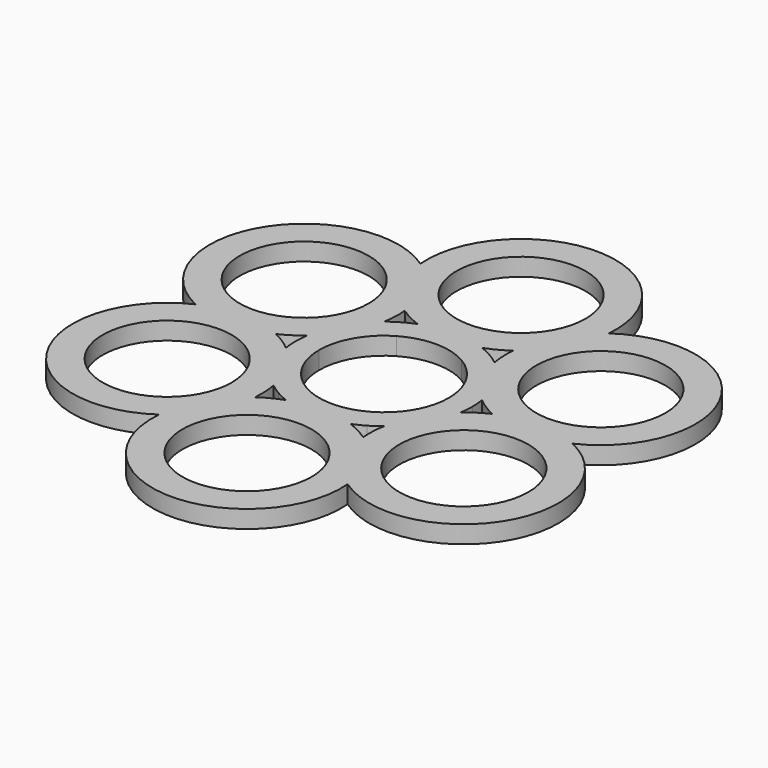
from build123d import *

# Parameters (mm, degrees)
F0_R     = 10.95
F1_DEPTH = 3


with BuildPart() as f1:
    # F0 (on Top) → F1 (new body)
    with BuildSketch(Plane.XY):
        with BuildLine():
            ThreePointArc((31.984763, 0), (39.065003, 22.55419), (15.992381, 27.699617))
            ThreePointArc((15.992381, 27.699617), (0, 45.10838), (-15.992381, 27.699617))
            ThreePointArc((-15.992381, 27.699617), (-39.065003, 22.55419), (-31.984763, 0))
            ThreePointArc((-31.984763, 0), (-39.065003, -22.55419), (-15.992381, -27.699617))
            ThreePointArc((-15.992381, -27.699617), (0, -45.10838), (15.992381, -27.699617))
            ThreePointArc((15.992381, -27.699617), (39.065003, -22.55419), (31.984763, 0))
        make_face()
        with Locations((-25.165295, -14.52919)):
            Circle(F0_R, mode=Mode.SUBTRACT)
        with BuildLine():
            ThreePointArc((-9.172914, -15.887953), (-9.131999, -13.797138), (-9.363272, -11.718751))
            ThreePointArc((-9.363272, -11.718751), (-8.455575, -12.389643), (-7.5, -12.990381))
            ThreePointArc((-7.5, -12.990381), (-6.501958, -13.517564), (-5.4671, -13.968207))
            ThreePointArc((-5.4671, -13.968207), (-7.382673, -14.807112), (-9.172914, -15.887953))
        make_face(mode=Mode.SUBTRACT)
        with Locations((0, -29.05838)):
            Circle(F0_R, mode=Mode.SUBTRACT)
        with BuildLine():
            ThreePointArc((9.172914, -15.887953), (7.382673, -14.807112), (5.4671, -13.968207))
            ThreePointArc((5.4671, -13.968207), (6.501958, -13.517564), (7.5, -12.990381))
            ThreePointArc((7.5, -12.990381), (8.455575, -12.389643), (9.363272, -11.718751))
            ThreePointArc((9.363272, -11.718751), (9.131999, -13.797138), (9.172914, -15.887953))
        make_face(mode=Mode.SUBTRACT)
        with Locations((25.165295, -14.52919)):
            Circle(F0_R, mode=Mode.SUBTRACT)
        with Locations((-25.165295, 14.52919)):
            Circle(F0_R, mode=Mode.SUBTRACT)
        with BuildLine():
            ThreePointArc((-18.345828, 0), (-16.514672, 1.009974), (-14.830372, 2.249456))
            ThreePointArc((-14.830372, 2.249456), (-14.957533, 1.127921), (-15, 0))
            ThreePointArc((-15, 0), (-14.957533, -1.127921), (-14.830372, -2.249456))
            ThreePointArc((-14.830372, -2.249456), (-16.514672, -1.009974), (-18.345828, 0))
        make_face(mode=Mode.SUBTRACT)
        with BuildLine():
            ThreePointArc((-9.363272, 11.718751), (-9.131999, 13.797138), (-9.172914, 15.887953))
            ThreePointArc((-9.172914, 15.887953), (-7.382673, 14.807112), (-5.4671, 13.968207))
            ThreePointArc((-5.4671, 13.968207), (-6.501958, 13.517564), (-7.5, 12.990381))
            ThreePointArc((-7.5, 12.990381), (-8.455575, 12.389643), (-9.363272, 11.718751))
        make_face(mode=Mode.SUBTRACT)
        with BuildLine():
            ThreePointArc((-5.5, 9.526279), (0, 11), (5.5, 9.526279))
            ThreePointArc((5.5, 9.526279), (9.526279, 5.5), (11, 0))
            ThreePointArc((11, 0), (9.526279, -5.5), (5.5, -9.526279))
            ThreePointArc((5.5, -9.526279), (0, -11), (-5.5, -9.526279))
            ThreePointArc((-5.5, -9.526279), (-9.526279, -5.5), (-11, 0))
            ThreePointArc((-11, 0), (-9.526279, 5.5), (-5.5, 9.526279))
        make_face(mode=Mode.SUBTRACT)
        with BuildLine():
            ThreePointArc((18.345828, 0), (16.514672, -1.009974), (14.830372, -2.249456))
            ThreePointArc((14.830372, -2.249456), (14.957533, -1.127921), (15, 0))
            ThreePointArc((15, 0), (14.957533, 1.127921), (14.830372, 2.249456))
            ThreePointArc((14.830372, 2.249456), (16.514672, 1.009974), (18.345828, 0))
        make_face(mode=Mode.SUBTRACT)
        with BuildLine():
            ThreePointArc((9.363272, 11.718751), (8.455575, 12.389643), (7.5, 12.990381))
            ThreePointArc((7.5, 12.990381), (6.501958, 13.517564), (5.4671, 13.968207))
            ThreePointArc((5.4671, 13.968207), (7.382673, 14.807112), (9.172914, 15.887953))
            ThreePointArc((9.172914, 15.887953), (9.131999, 13.797138), (9.363272, 11.718751))
        make_face(mode=Mode.SUBTRACT)
        with Locations((25.165295, 14.52919)):
            Circle(F0_R, mode=Mode.SUBTRACT)
        with Locations((0, 29.05838)):
            Circle(F0_R, mode=Mode.SUBTRACT)
    extrude(amount=F1_DEPTH)


solid = f1.part
